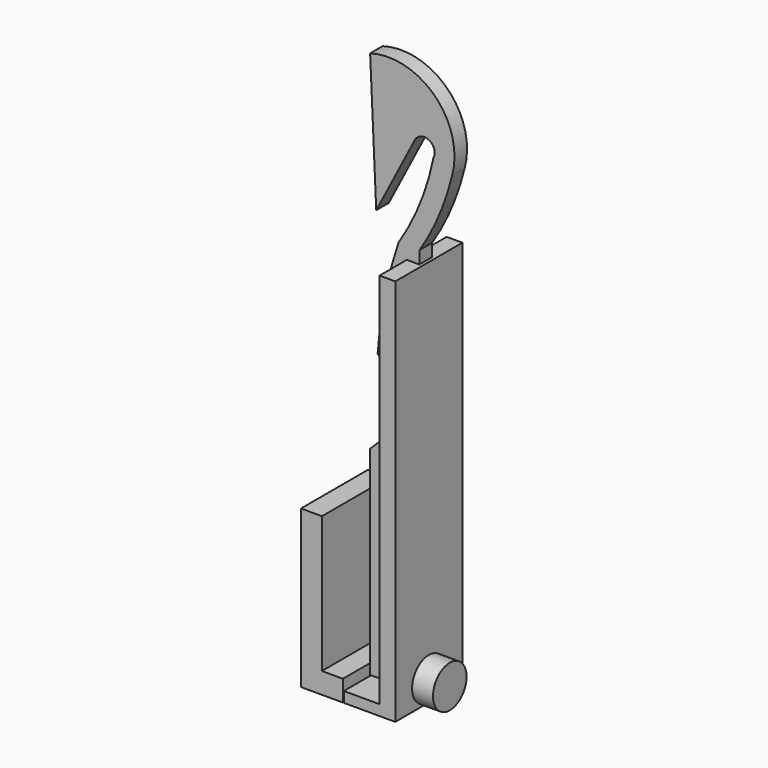
from build123d import *

# Parameters (mm, degrees)
PAD003_DEPTH = 4
SKETCH002_R  = 2
PAD004_DEPTH = 2
PAD005_DEPTH = 4
PAD_DEPTH    = 0.75


with BuildPart() as pad003:
    # Sketch003 → Pad003 (new body, symmetric)
    with BuildSketch(Plane.XZ):
        Polygon((-9, 15), (-7, 15), (-7, 2), (-5, 2), (-5, 0), (-9, 0), align=None)
    extrude(amount=PAD003_DEPTH, both=True)


with BuildPart() as pad004:
    # Sketch002 → Pad004 (new body)
    with BuildSketch(Plane.YZ):
        with Locations((0, 2)):
            Circle(SKETCH002_R)
    extrude(amount=PAD004_DEPTH)


with BuildPart() as pad005:
    # Sketch → Pad005 (new body, symmetric)
    with BuildSketch(Plane.XZ):
        Polygon((-1.5, 37), (0, 37), (0, 0), (-4.908648, 0), (-4.908648, 1), (-1.5, 1), align=None)
    extrude(amount=PAD005_DEPTH, both=True)


with BuildPart() as fusion:
    # Sketch001 → Pad (new body, symmetric)
    with BuildSketch(Plane.XZ):
        with BuildLine():
            Line((0, 0), (0, 28.218657))
            ThreePointArc((-0.280961, 38.218657), (-0.265608, 33.215142), (0, 28.218657))
            ThreePointArc((-0.280961, 38.218657), (1.567466, 41.71926), (2.817294, 45.475433))
            ThreePointArc((2.817294, 45.475433), (1.179618, 51.6371), (-5, 53.205675))
            Line((-4.419163, 40.218657), (-5, 53.205675))
            Line((-4.419163, 40.218657), (-0.732708, 47.318661))
            ThreePointArc((1.042293, 46.397047), (0.615603, 47.745362), (-0.732708, 47.318661))
            ThreePointArc((-2.280961, 38.218657), (-0.238148, 42.152959), (1.042293, 46.397047))
            ThreePointArc((-2.280961, 38.218657), (-3.600955, 33.282656), (-4.280961, 28.218657))
            Line((-4.280961, 28.218657), (-2.922591, 26.599815))
            Line((-3.35837, 21.618842), (-2.922591, 26.599815))
            Line((-5, 20), (-3.35837, 21.618842))
            Line((-5, 0), (-5, 20))
            Line((0, 0), (-5, 0))
        make_face()
    extrude(amount=PAD_DEPTH, both=True)

    # Fusion: union Pad003, Pad004, Pad005
    add(pad003.part)
    add(pad004.part)
    add(pad005.part)


solid = fusion.part
